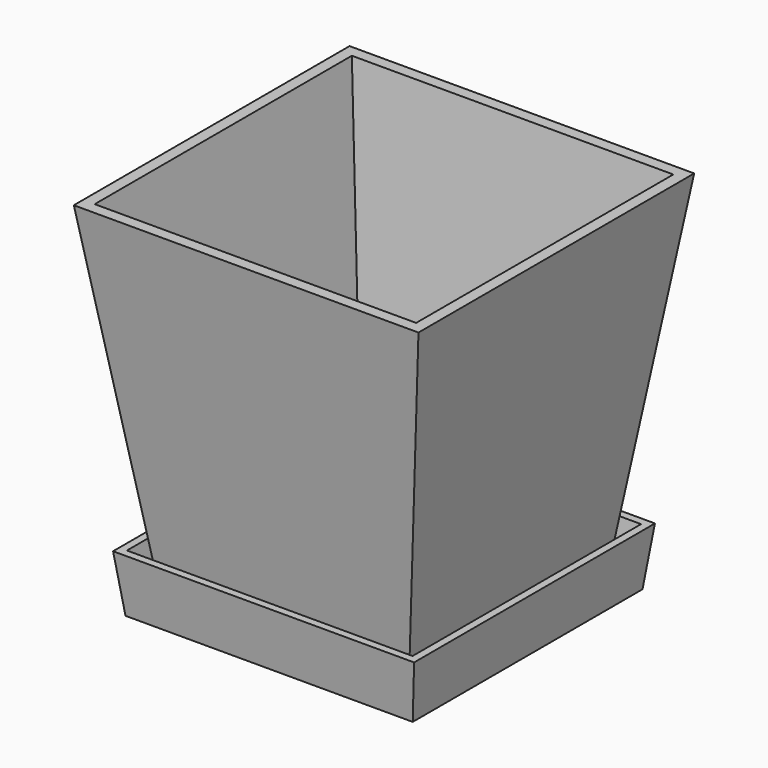
from build123d import *

# Parameters (mm, degrees)
F0_W      = 65
F0_H      = 65
F2_W      = 90
F2_H      = 90
F4_T      = -3
F5_R      = 1.5
F6_DEPTH  = 90.0010001
F10_W     = 78.6111111111
F10_H     = 78.6111111111
F8_W      = 75
F8_H      = 75
F12_T     = -2
F14_DEPTH = 3


with BuildPart() as f3:
    # F0 (on Top) → F3 section 0
    with BuildSketch(Plane.XY):
        Rectangle(F0_W, F0_H)
    # F2 (on offset) → F3 section 1
    with BuildSketch(Plane.XY.offset(90)):
        Rectangle(F2_W, F2_H)
    loft()

    # F4
    f4_openings = [f3.faces().sort_by_distance(p)[0] for p in [
        (0, 0, 90),
    ]]
    offset(amount=F4_T, openings=f4_openings)

    # F5 (on Top) → F6 (cut, through all)
    with BuildSketch(Plane.XY):
        with Locations((-15, -15)):
            Circle(F5_R)
        with Locations((-15, 0)):
            Circle(F5_R)
        with Locations((-15, 15)):
            Circle(F5_R)
        with Locations((0, -15)):
            Circle(F5_R)
        Circle(F5_R)
        with Locations((0, 15)):
            Circle(F5_R)
        with Locations((15, -15)):
            Circle(F5_R)
        with Locations((15, 0)):
            Circle(F5_R)
        with Locations((15, 15)):
            Circle(F5_R)
    extrude(amount=F6_DEPTH, mode=Mode.SUBTRACT)


with BuildPart() as f11:
    # F10 (on offset) → F11 section 0
    with BuildSketch(Plane.XY.offset(10)):
        Rectangle(F10_W, F10_H)
    # F8 (on offset) → F11 section 1
    with BuildSketch(Plane.XY.offset(-5)):
        Rectangle(F8_W, F8_H)
    loft()

    # F12
    f12_openings = [f11.faces().sort_by_distance(p)[0] for p in [
        (0, 0, 10),
    ]]
    offset(amount=F12_T, openings=f12_openings)

    # F13 (on face) → F14 (join)
    with BuildSketch(Plane.XY.offset(-3)):
        Polygon((-27.0114790413, -28.1428498912), (-16.4048773235, -17.5362481734), (-17.5362481734, -16.4048773235), (-28.1428498912, -27.0114790413), align=None)
        Polygon((27.0114790413, -28.1428498912), (28.1428498912, -27.0114790413), (17.5362481734, -16.4048773235), (16.4048773235, -17.5362481734), align=None)
        Polygon((28.1428498912, 27.0114790413), (27.0114790413, 28.1428498912), (16.4048773235, 17.5362481734), (17.5362481734, 16.4048773235), align=None)
        Polygon((-27.0114790413, 28.1428498912), (-28.1428498912, 27.0114790413), (-17.5362481734, 16.4048773235), (-16.4048773235, 17.5362481734), align=None)
    extrude(amount=F14_DEPTH)


solid = Compound([f3.part, f11.part])
